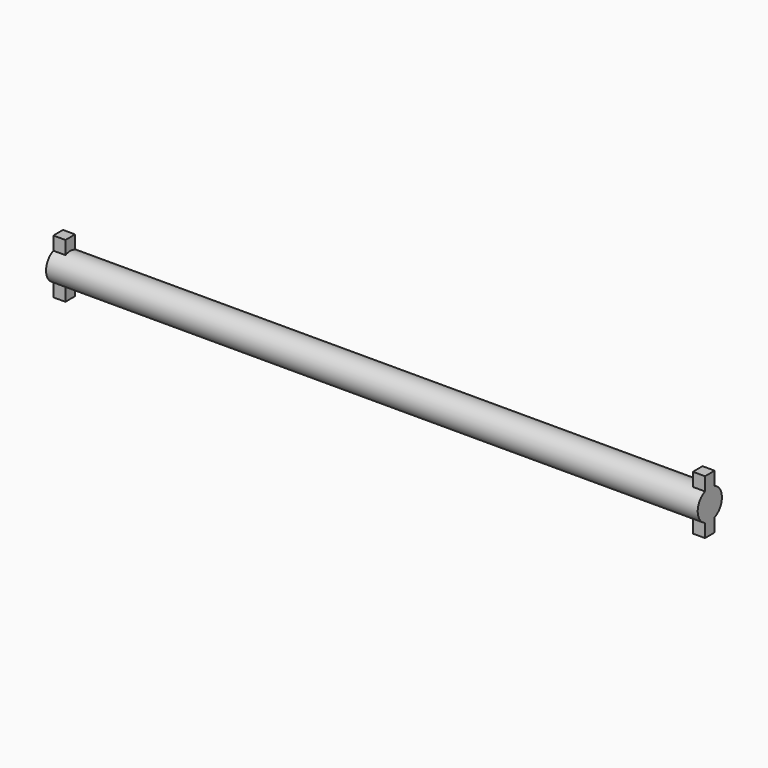
from build123d import *

# Parameters (mm, degrees)
F0_R     = 2.5
F1_DEPTH = 53.856
F3_DEPTH = 2


with BuildPart() as f1:
    # F0 (on Right) → F1 (new body, symmetric)
    with BuildSketch(Plane.YZ):
        Circle(F0_R)
    extrude(amount=F1_DEPTH, both=True)

    # F2 (on face) → F3 (join)
    with BuildSketch(Plane(origin=(-53.856, 0, 0), x_dir=(0, -1, 0), z_dir=(-1, 0, 0))):
        with BuildLine():
            ThreePointArc((-1, 2.291288), (0, 2.5), (1, 2.291288))
            Line((1, 2.291288), (1, 4.5))
            Line((1, 4.5), (-1, 4.5))
            Line((-1, 4.5), (-1, 2.291288))
        make_face()
        with BuildLine():
            Line((-1, -4.5), (1, -4.5))
            Line((1, -4.5), (1, -2.291288))
            ThreePointArc((1, -2.291288), (0, -2.5), (-1, -2.291288))
            Line((-1, -2.291288), (-1, -4.5))
        make_face()
    extrude(amount=-F3_DEPTH)

    # F4: F1 across plane


with BuildPart() as f1_1:
    add(f1.part)
    add(f1.part.mirror(Plane.YZ))


solid = f1_1.part
